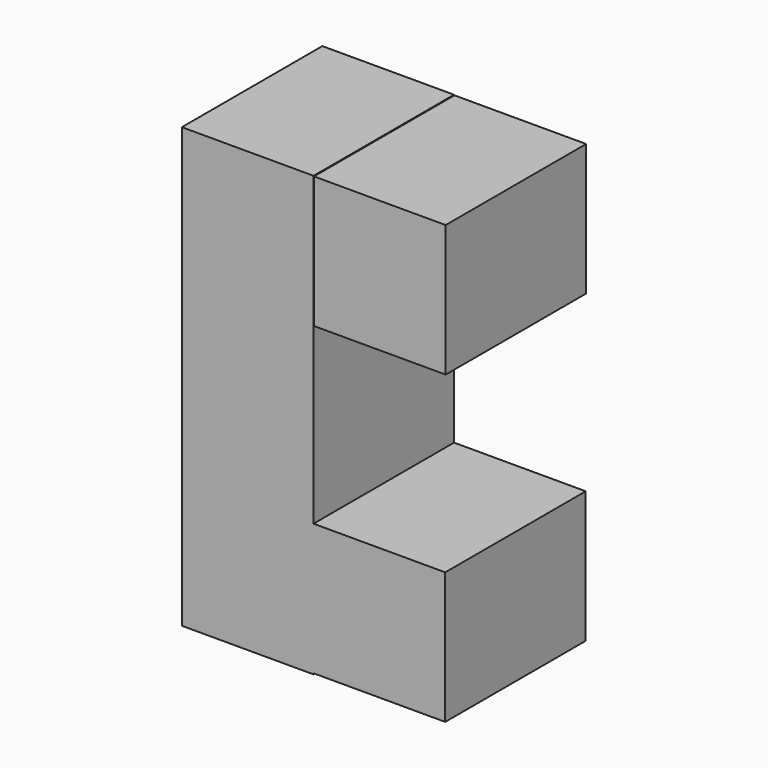
from build123d import *

# Parameters (mm, degrees)
F0_W     = 19.05
F0_H     = 19.05
F1_DEPTH = 25.4


with BuildPart() as f1:
    # F0 (on Front) → F1 (new body)
    with BuildSketch(Plane.XZ):
        Polygon((-57.607489, 15.406334), (-38.557489, 15.406334), (-38.557489, 15.551562), (-38.557489, 34.601562), (-38.557489, 78.906334), (-57.607489, 78.906334), align=None)
        with Locations((-29.032489, 25.076562)):
            Rectangle(F0_W, F0_H)
        with Locations((-28.971859, 69.324278)):
            Rectangle(F0_W, F0_H)
    extrude(amount=F1_DEPTH)


solid = f1.part
